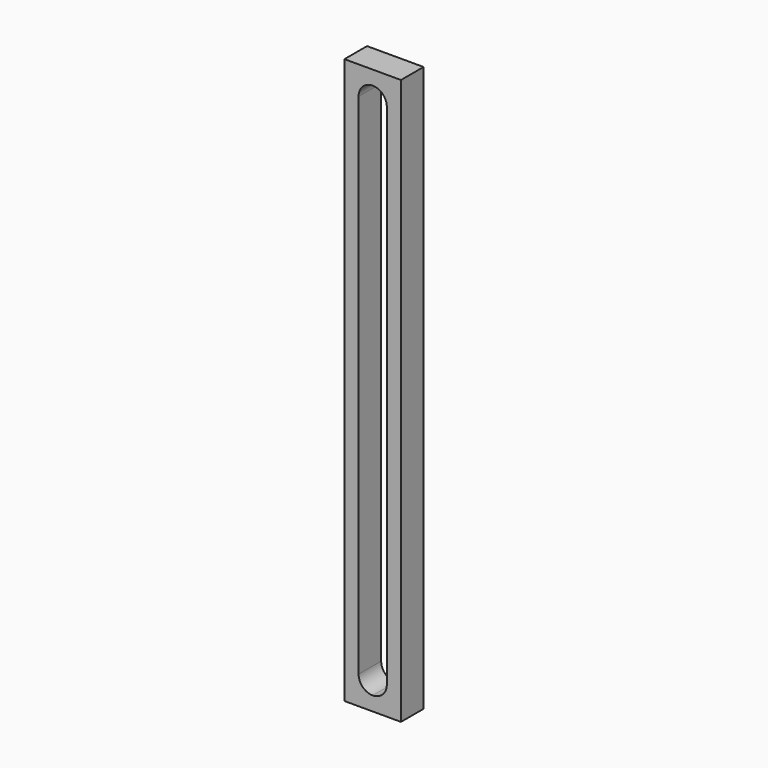
from build123d import *

# Parameters (mm, degrees)
F0_W     = 20
F0_H     = 200
F1_DEPTH = 10


with BuildPart() as f1:
    # F0 (on Front) → F1 (new body)
    with BuildSketch(Plane.XZ):
        Rectangle(F0_W, F0_H)
        with BuildLine():
            Line((5, 90), (5, -90))
            ThreePointArc((5, -90), (3.535534, -93.535534), (0, -95))
            ThreePointArc((0, -95), (-3.535534, -93.535534), (-5, -90))
            Line((-5, -90), (-5, 90))
            ThreePointArc((-5, 90), (-3.535534, 93.535534), (0, 95))
            ThreePointArc((0, 95), (3.535534, 93.535534), (5, 90))
        make_face(mode=Mode.SUBTRACT)
    extrude(amount=F1_DEPTH)


solid = f1.part
